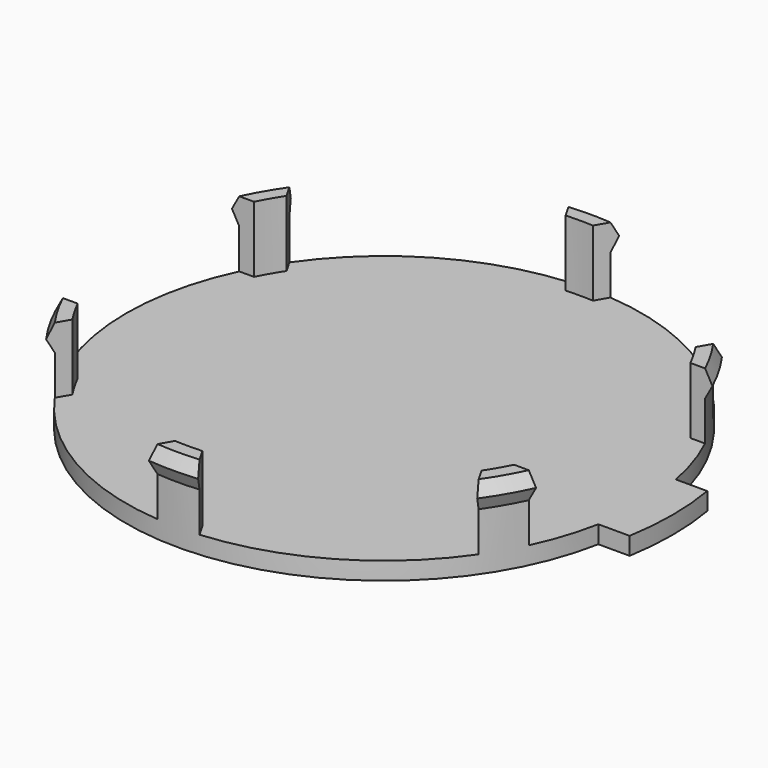
from build123d import *

# Parameters (mm, degrees)
POCKET002_DEPTH = 7.5
PAD001_DEPTH    = 2


with BuildPart() as part:
    # Sketch004 → Revolution001 (revolve)
    with BuildSketch(Plane.YZ):
        Polygon((0, -22), (27.72376, -22), (27.72376, -14.5), (29.22376, -14.5), (29.97376, -16), (29.22376, -17.5), (29.22376, -24), (0, -24), align=None)
    revolve(axis=Axis((0, 0, 0), (0, 0, 1)))

    # Sketch005 (on Face3 of Revolution001) → Pocket002 (cut)
    with BuildSketch(Plane(origin=(0, 0, -14.5), x_dir=(0, -1, 0), z_dir=(0, 0, 1))):
        Polygon((-12.5, 31.22376), (12.5, 31.22376), (12.5, 21.650635), (20.790569, 26.437197), (33.290569, 4.786562), (25, 0), (33.290569, -4.786562), (20.790569, -26.437197), (12.5, -21.650635), (12.5, -31.22376), (-12.5, -31.22376), (-12.5, -21.650635), (-20.790569, -26.437197), (-33.290569, -4.786562), (-25, 0), (-33.290569, 4.786562), (-20.790569, 26.437197), (-12.5, 21.650635), align=None)
    extrude(amount=-POCKET002_DEPTH, mode=Mode.SUBTRACT)

    # Sketch006 (on Face39 of Pocket002) → Pad001 (join)
    with BuildSketch(Plane.YX.offset(24)):
        with BuildLine():
            ThreePointArc((5.5, 32.258246), (0, 32.72376), (-5.5, 32.258246))
            Line((-5.5, 32.258246), (-5.5, 0))
            Line((5.5, 0), (-5.5, 0))
            Line((5.5, 32.258246), (5.5, 0))
        make_face()
    extrude(amount=-PAD001_DEPTH)


solid = part.part
